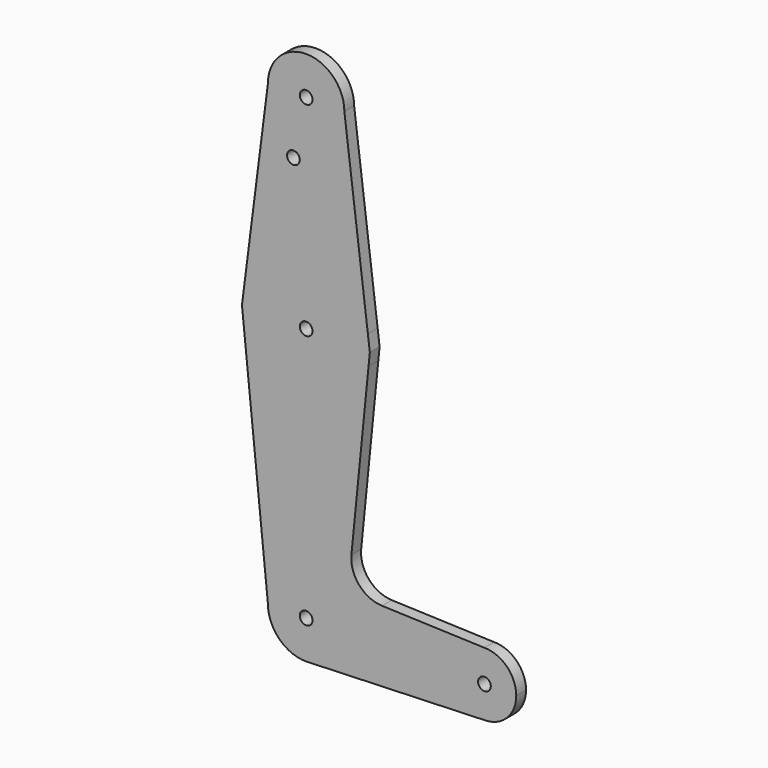
from build123d import *

# Parameters (mm, degrees)
F0_R     = 1.5875
F1_DEPTH = 3.048


with BuildPart() as f1:
    # F0 (on Front) → F1 (new body)
    with BuildSketch(Plane.XZ):
        with BuildLine():
            ThreePointArc((-9.525, 50.8), (0, 41.275), (9.525, 50.8))
            ThreePointArc((9.525, 50.8), (0, 60.325), (-9.525, 50.8))
        make_face()
        with Locations((0, 50.8)):
            Circle(F0_R, mode=Mode.SUBTRACT)
        with BuildLine():
            Line((15.386538, 3.907692), (9.525, 50.8))
            ThreePointArc((9.525, 50.8), (0, 41.275), (-9.525, 50.8))
            Line((-9.525, 50.8), (-15.747457, 2.00829))
            ThreePointArc((-15.747457, 2.00829), (-0.966694, 15.84554), (15.386538, 3.907692))
        make_face()
        with Locations((-3.175, 36.5252)):
            Circle(F0_R, mode=Mode.SUBTRACT)
        with BuildLine():
            Line((15.875, 0), (15.386538, 3.907692))
            ThreePointArc((15.386538, 3.907692), (-0.966694, 15.84554), (-15.747457, 2.00829))
            ThreePointArc((-15.747457, 2.00829), (-2.57762, -15.664338), (15.560644, -3.143564))
            Line((15.560644, -3.143564), (15.875, 0))
        make_face()
        Circle(F0_R, mode=Mode.SUBTRACT)
        with BuildLine():
            ThreePointArc((15.560644, -3.143564), (-2.57762, -15.664338), (-15.747457, 2.00829))
            Line((-15.747457, 2.00829), (-16.003576, 0))
            Line((-16.003576, 0), (-9.525, -63.5))
            ThreePointArc((-9.525, -63.5), (0, -53.975), (9.525, -63.5))
            ThreePointArc((9.525, -63.5), (6.970557, -69.991299), (0.677344, -73.000886))
            Line((0.677344, -73.000886), (44.732405, -71.432475))
            ThreePointArc((44.732405, -71.432475), (36.513756, -63.641225), (44.45, -55.5625))
            Line((44.45, -55.5625), (18.910573, -54.650378))
            ThreePointArc((18.910573, -54.650378), (13.205355, -51.933808), (11.283583, -45.914169))
            Line((11.283583, -45.914169), (15.560644, -3.143564))
        make_face()
        with BuildLine():
            ThreePointArc((52.3875, -63.5), (50.06266, -57.88734), (44.45, -55.5625))
            ThreePointArc((44.45, -55.5625), (36.513756, -63.641225), (44.732405, -71.432475))
            ThreePointArc((44.732405, -71.432475), (50.161633, -69.01191), (52.3875, -63.5))
        make_face()
        with Locations((44.45, -63.5)):
            Circle(F0_R, mode=Mode.SUBTRACT)
        with BuildLine():
            ThreePointArc((9.525, -63.5), (0, -53.975), (-9.525, -63.5))
            ThreePointArc((-9.525, -63.5), (-6.735192, -70.235192), (0, -73.025))
            Line((0, -73.025), (0.677344, -73.000886))
            ThreePointArc((0.677344, -73.000886), (6.970557, -69.991299), (9.525, -63.5))
        make_face()
        with Locations((0, -63.5)):
            Circle(F0_R, mode=Mode.SUBTRACT)
    extrude(amount=F1_DEPTH)


solid = f1.part
